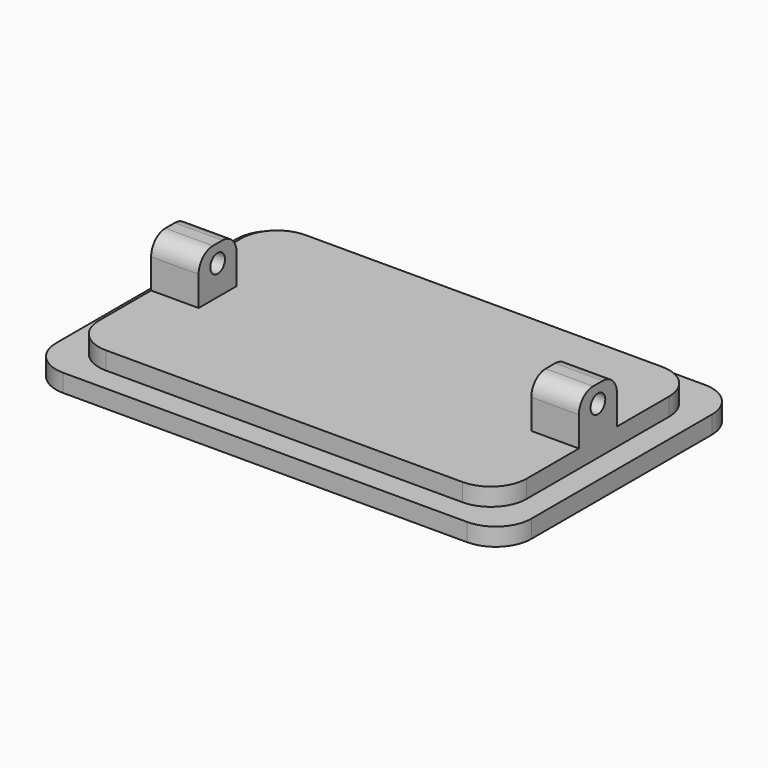
from build123d import *

# Parameters (mm, degrees)
SKETCH_W     = 80
SKETCH_H     = 50
PAD_DEPTH    = 3
SKETCH001_W  = 72
SKETCH001_H  = 42
PAD001_DEPTH = 3
FILLET_R     = 6
SKETCH002_W  = 8
SKETCH002_H  = 8
PAD002_DEPTH = 8
FILLET001_R  = 3
SKETCH003_R  = 1.55
POCKET_DEPTH = 76.001


with BuildPart() as part:
    # Sketch → Pad (new body)
    with BuildSketch(Plane.XY):
        with Locations((-40, 25)):
            Rectangle(SKETCH_W, SKETCH_H)
    extrude(amount=PAD_DEPTH)

    # Sketch001 (on Face6 of Pad) → Pad001 (join)
    with BuildSketch(Plane.XY.offset(3)):
        with Locations((-40, 25)):
            Rectangle(SKETCH001_W, SKETCH001_H)
    extrude(amount=PAD001_DEPTH)

    # Fillet
    fillet_edges = [part.edges().sort_by_distance(p)[0] for p in [
        (-80, 0, 1.5),
        (-76, 4, 4.5),
        (-4, 4, 4.5),
        (0, 0, 1.5),
        (0, 50, 1.5),
        (-4, 46, 4.5),
        (-76, 46, 4.5),
        (-80, 50, 1.5),
    ]]
    fillet(fillet_edges, radius=FILLET_R)

    # Sketch002 (on Face19 of Fillet) → Pad002 (join)
    with BuildSketch(Plane.XY.offset(6)):
        with Locations((-72, 25)):
            Rectangle(SKETCH002_W, SKETCH002_H)
        with Locations((-8, 25)):
            Rectangle(SKETCH002_W, SKETCH002_H)
    extrude(amount=PAD002_DEPTH)

    # Fillet001
    fillet001_edges = [part.edges().sort_by_distance(p)[0] for p in [
        (-8, 21, 14),
        (-8, 29, 14),
        (-72, 21, 14),
        (-72, 29, 14),
    ]]
    fillet(fillet001_edges, radius=FILLET001_R)

    # Sketch003 (on Face29 of Fillet001) → Pocket (cut, through all)
    with BuildSketch(Plane.YZ.offset(-4)):
        with Locations((25, 11)):
            Circle(SKETCH003_R)
    extrude(amount=-POCKET_DEPTH, mode=Mode.SUBTRACT)


solid = part.part
